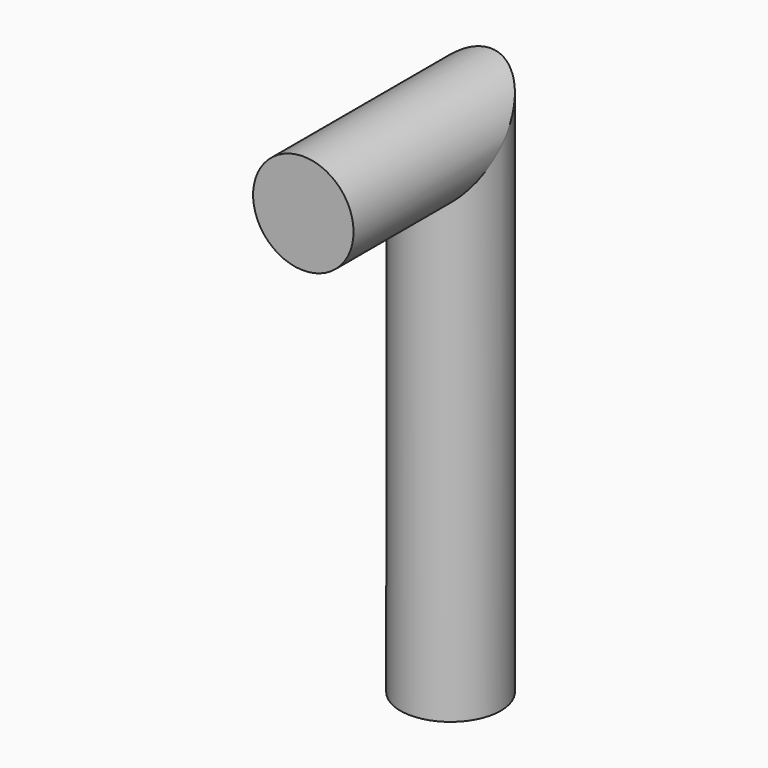
from build123d import *

# Parameters (mm, degrees)
F0_R = 5


with BuildPart() as f2:
    # F2: sweep along a path in F1
    with BuildLine(Plane.YZ) as f2_path:
        Line((0, 33.5811925529), (18.9189189189, 33.5811925529))
        Line((18.9189189189, 33.5811925529), (18.9189189189, -16.4188074471))
    # F0 (on Front) → F2 (sweep)
    with BuildSketch(Plane.XZ):
        with Locations((0, 32.985124737)):
            Circle(F0_R)
    sweep(path=f2_path.line, transition=Transition.RIGHT)


solid = f2.part
